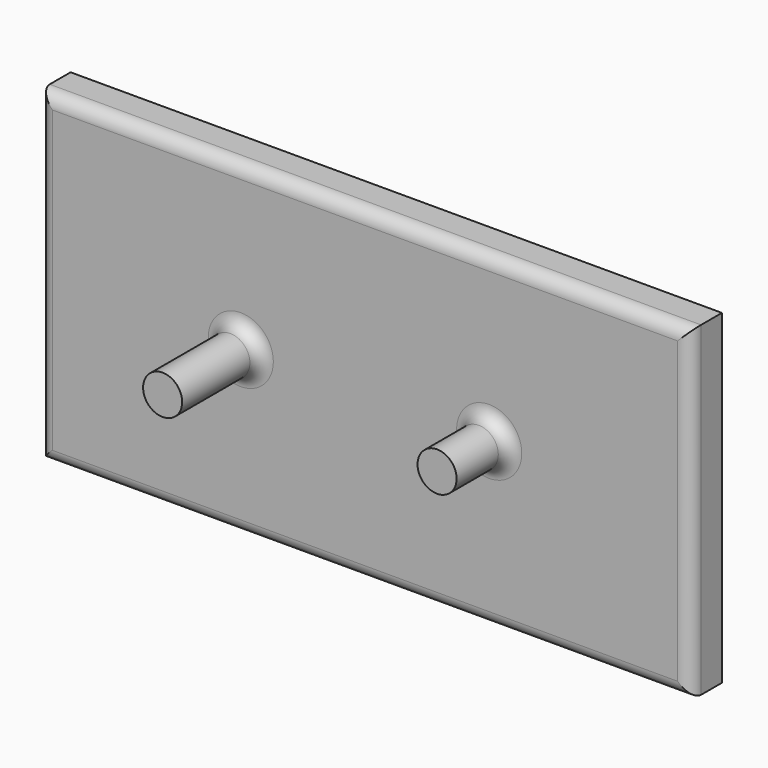
from build123d import *

# Parameters (mm, degrees)
F0_W     = 100
F0_H     = 50
F1_DEPTH = 6
F2_R     = 3
F3_DEPTH = 10
F4_R     = 2
F5_R     = 3
F6_DEPTH = 5


with BuildPart() as f1:
    # F0 (on Front) → F1 (new body)
    with BuildSketch(Plane.XZ):
        Rectangle(F0_W, F0_H)
    extrude(amount=F1_DEPTH)

    # F2 (on face) → F3 (join)
    with BuildSketch(Plane.XZ.offset(6)):
        with Locations((-19.068, 0)):
            Circle(F2_R)
        with Locations((19.068, 0)):
            Circle(F2_R)
    extrude(amount=F3_DEPTH)

    # F4
    f4_edges = [f1.edges().sort_by_distance(p)[0] for p in [
        (50, -6, 0),
        (0, -6, -25),
        (0, -6, 25),
        (-50, -6, 0),
        (-22.068, -6, 0),
        (16.068, -6, 0),
    ]]
    fillet(f4_edges, radius=F4_R)

    # F5 (on face) → F6 (join)
    with BuildSketch(Plane.XZ.offset(16)):
        with Locations((-19.068, 0)):
            Circle(F5_R)
    extrude(amount=F6_DEPTH)


solid = f1.part
